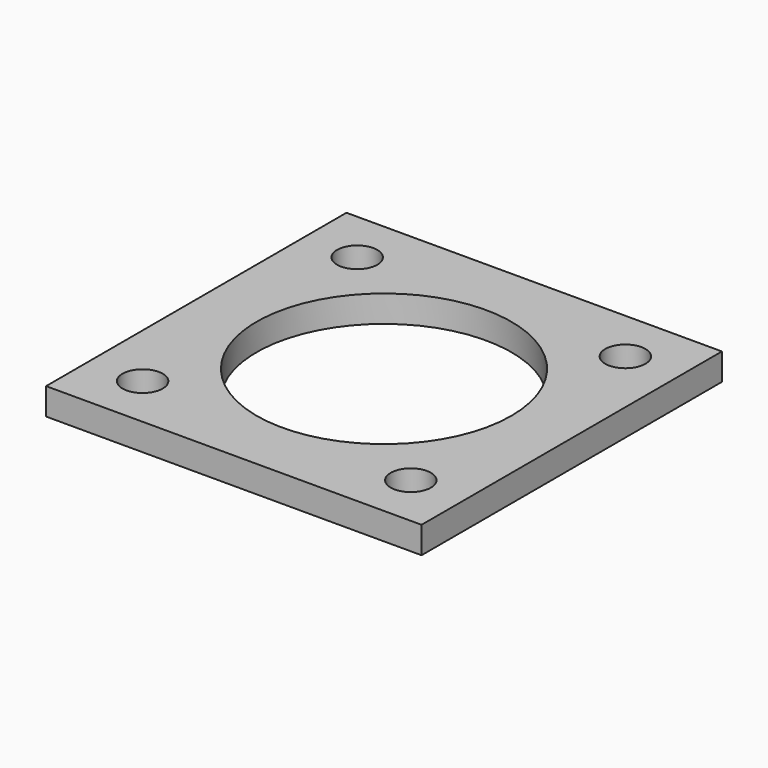
from build123d import *

# Parameters (mm, degrees)
F0_W     = 88.9
F0_H     = 88.9
F0_R     = 4.7625
F0_R_2   = 30.1625
F1_DEPTH = 6.35


with BuildPart() as f1:
    # F0 (on Top) → F1 (new body)
    with BuildSketch(Plane.XY):
        Rectangle(F0_W, F0_H)
        with Locations((-31.75, -31.75)):
            Circle(F0_R, mode=Mode.SUBTRACT)
        with Locations((31.75, -31.75)):
            Circle(F0_R, mode=Mode.SUBTRACT)
        with Locations((-31.75, 31.75)):
            Circle(F0_R, mode=Mode.SUBTRACT)
        Circle(F0_R_2, mode=Mode.SUBTRACT)
        with Locations((31.75, 31.75)):
            Circle(F0_R, mode=Mode.SUBTRACT)
    extrude(amount=-F1_DEPTH)


solid = f1.part
